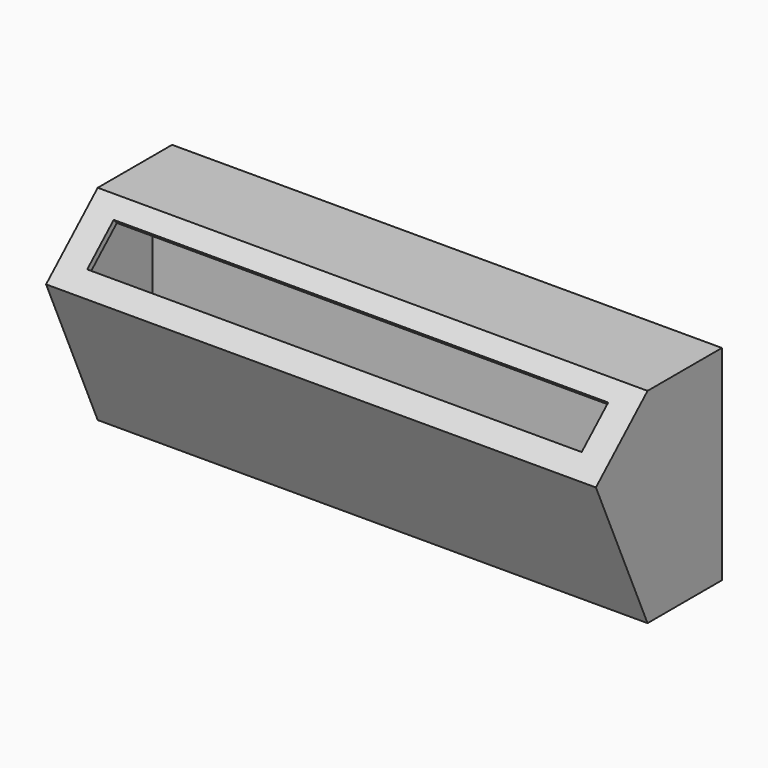
from build123d import *

# Parameters (mm, degrees)
F0_W          = 201
F0_H          = 71
F1_DEPTH      = 3
F0_W_2        = 207
F0_H_2        = 77
F2_DEPTH      = 25
F2_DEPTH_BACK = 10
F4_DEPTH      = 3
F5_DEPTH      = 207
F7_DEPTH      = 3
F8_W          = 186.1692070961
F8_H          = 16.862899065
F9_DEPTH      = 2.2177692789


with BuildPart() as f1:
    # F0 (on Front) → F1 (new body)
    with BuildSketch(Plane.XZ):
        Rectangle(F0_W, F0_H)
    extrude(amount=F1_DEPTH)

    # F0 (on Front) → F2 (join, two sides)
    with BuildSketch(Plane.XZ) as f2_sk:
        Rectangle(F0_W_2, F0_H_2)
        Rectangle(F0_W, F0_H, mode=Mode.SUBTRACT)
    extrude(amount=F2_DEPTH)
    extrude(f2_sk.sketch, amount=-F2_DEPTH_BACK)

    # F3 (on face) → F4 (join, through all)
    with BuildSketch(Plane.YZ.offset(103.5)):
        Polygon((-47.4088080227, 15.086744912), (-25, -35.5), (-25, 35.5), align=None)
        Polygon((-49.3025101092, 16.3616811017), (-25, -38.5), (-25, -35.5), (-47.4088080227, 15.086744912), (-25, 35.5), (-25, 38.5), align=None)
    extrude(amount=-F4_DEPTH)

    # F3 (on face) → F5 (join, through all)
    with BuildSketch(Plane.YZ.offset(103.5)):
        Polygon((-49.3025101092, 16.3616811017), (-25, -38.5), (-25, -35.5), (-47.4088080227, 15.086744912), (-25, 35.5), (-25, 38.5), align=None)
    extrude(amount=-F5_DEPTH)

    # F6 (on face) → F7 (join, through all)
    with BuildSketch(Plane(origin=(-103.5, 0, 0), x_dir=(0, -1, 0), z_dir=(-1, 0, 0))):
        Polygon((25, 35.5), (25, -35.5), (47.4088080227, 15.086744912), align=None)
    extrude(amount=-F7_DEPTH)

    # F8 (on face) → F9 (cut, through all)
    with BuildSketch(Plane(origin=(0, -30.504070767, 33.4860786671), x_dir=(1, 0, 0), z_dir=(0, -0.6734240389, 0.7392564263))):
        with Locations((0, -8.4314495325)):
            Rectangle(F8_W, F8_H)
    extrude(amount=-F9_DEPTH, mode=Mode.SUBTRACT)


solid = f1.part
